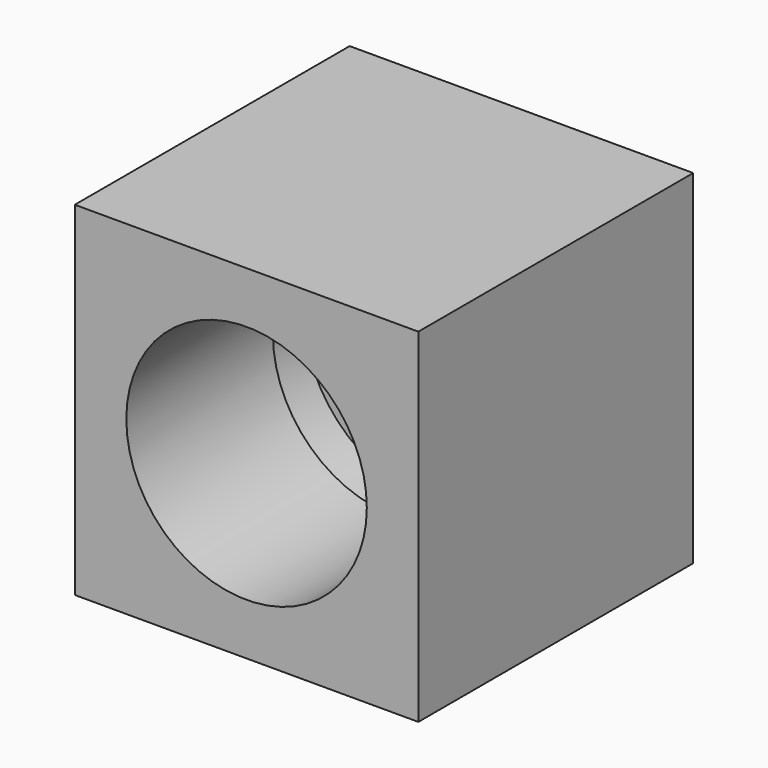
from build123d import *

# Parameters (mm, degrees)
F0_W     = 15
F0_H     = 15
F1_DEPTH = 15
F2_R     = 5.25
F3_DEPTH = 10
F4_R     = 5.5
F4_R_2   = 5.25
F5_DEPTH = 2


with BuildPart() as f1:
    # F0 (on Front) → F1 (new body)
    with BuildSketch(Plane.XZ):
        Rectangle(F0_W, F0_H)
    extrude(amount=F1_DEPTH)

    # F2 (on face) → F3 (cut)
    with BuildSketch(Plane.XZ.offset(15)):
        Circle(F2_R)
    extrude(amount=-F3_DEPTH, mode=Mode.SUBTRACT)

    # F4 (on face) → F5 (cut)
    with BuildSketch(Plane.XZ.offset(5)):
        Circle(F4_R)
        Circle(F4_R_2, mode=Mode.SUBTRACT)
    extrude(amount=F5_DEPTH, mode=Mode.SUBTRACT)


solid = f1.part
